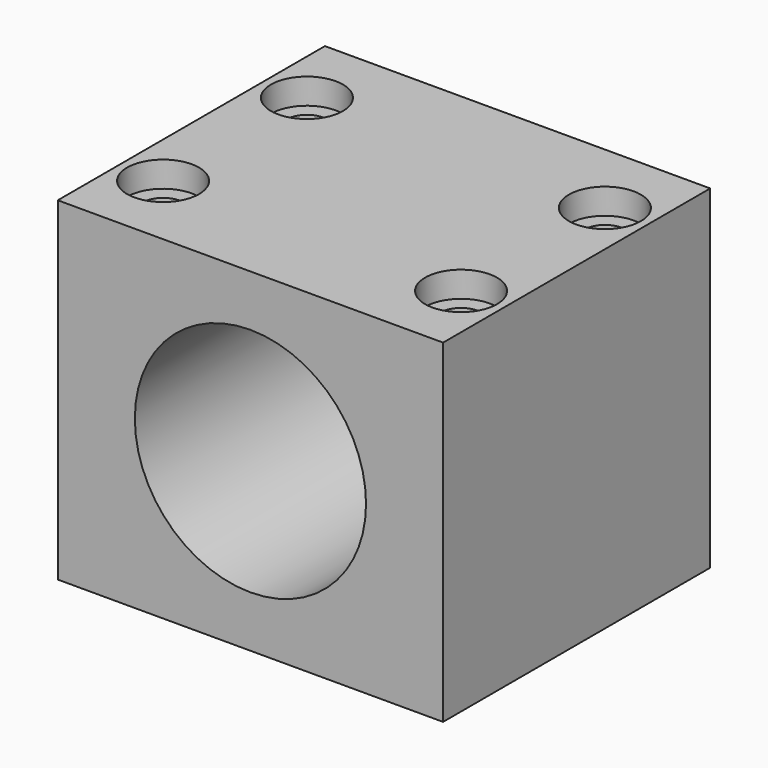
from build123d import *

# Parameters (mm, degrees)
F0_W     = 75
F0_H     = 65
F0_R     = 22.5
F1_DEPTH = 32.5
F2_R     = 4
F3_DEPTH = 65.001
F2_R_2   = 7
F4_DEPTH = 5


with BuildPart() as f1:
    # F0 (on Front) → F1 (new body, symmetric)
    with BuildSketch(Plane.XZ):
        with Locations((37.5, 32.5)):
            Rectangle(F0_W, F0_H)
        with Locations((37.5, 32.5)):
            Circle(F0_R, mode=Mode.SUBTRACT)
    extrude(amount=F1_DEPTH, both=True)

    # F2 (on face) → F3 (cut, through all)
    with BuildSketch(Plane.XY.offset(65)):
        with Locations((66.5, 17.5)):
            Circle(F2_R)
        with Locations((66.5, -17.5)):
            Circle(F2_R)
        with Locations((8.5, -17.5)):
            Circle(F2_R)
        with Locations((8.5, 17.5)):
            Circle(F2_R)
    extrude(amount=-F3_DEPTH, mode=Mode.SUBTRACT)

    # F2 (on face) → F4 (cut)
    with BuildSketch(Plane.XY.offset(65)):
        with Locations((8.5, 17.5)):
            Circle(F2_R_2)
        with Locations((8.5, 17.5)):
            Circle(F2_R, mode=Mode.SUBTRACT)
        with Locations((66.5, 17.5)):
            Circle(F2_R_2)
        with Locations((66.5, 17.5)):
            Circle(F2_R, mode=Mode.SUBTRACT)
        with Locations((66.5, -17.5)):
            Circle(F2_R_2)
        with Locations((66.5, -17.5)):
            Circle(F2_R, mode=Mode.SUBTRACT)
        with Locations((8.5, -17.5)):
            Circle(F2_R_2)
        with Locations((8.5, -17.5)):
            Circle(F2_R, mode=Mode.SUBTRACT)
    extrude(amount=-F4_DEPTH, mode=Mode.SUBTRACT)


solid = f1.part
